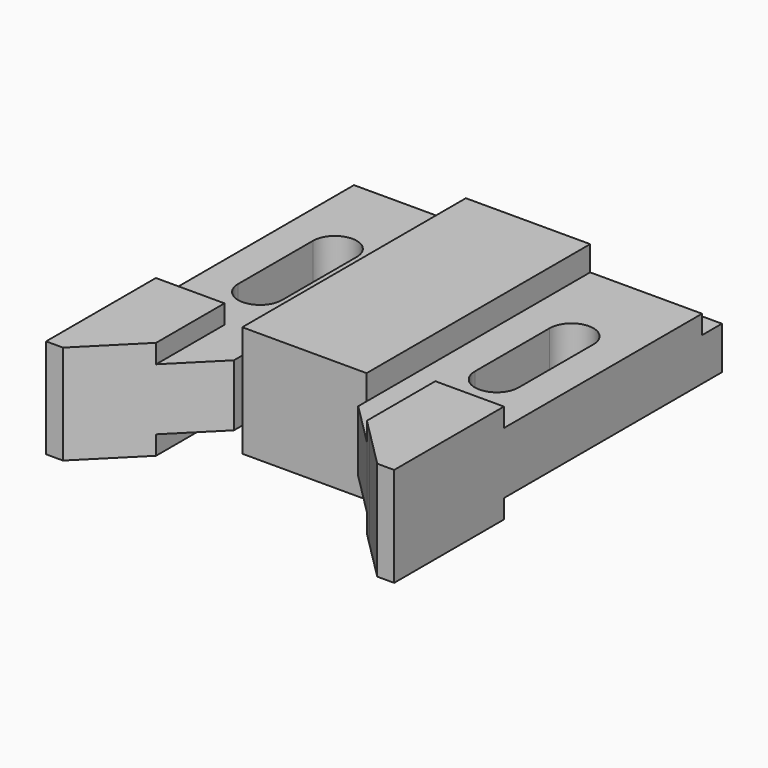
from build123d import *

# Parameters (mm, degrees)
F0_W     = 31.75
F0_H     = 77.724
F1_DEPTH = 14.224
F2_DEPTH = 7.874
F4_DEPTH = 88.901
F5_DEPTH = 12.7


with BuildPart() as f1:
    # F0 (on Top) → F1 (new body, symmetric)
    with BuildSketch(Plane.XY):
        Rectangle(F0_W, F0_H)
    extrude(amount=F1_DEPTH, both=True)

    # F0 (on Top) → F2 (join, symmetric)
    with BuildSketch(Plane.XY):
        Polygon((-15.875, -38.862), (-15.875, 38.862), (-44.45, 38.862), (-44.45, -30.734), (-26.924, -30.734), (-26.924, -52.577469), (-15.875, -41.528469), align=None)
        with BuildLine():
            Line((-35.814, -15.24), (-35.814, 8.636))
            ThreePointArc((-35.814, 8.636), (-30.226, 14.224), (-24.638, 8.636))
            Line((-24.638, 8.636), (-24.638, -15.24))
            ThreePointArc((-24.638, -15.24), (-30.226, -20.828), (-35.814, -15.24))
        make_face(mode=Mode.SUBTRACT)
        Polygon((44.45, 38.862), (15.875, 38.862), (15.875, -38.862), (15.875, -41.528469), (26.924, -52.577469), (26.924, -30.734), (44.45, -30.734), align=None)
        with BuildLine():
            ThreePointArc((24.638, 8.636), (30.226, 14.224), (35.814, 8.636))
            Line((35.814, 8.636), (35.814, -15.24))
            ThreePointArc((35.814, -15.24), (30.226, -20.828), (24.638, -15.24))
            Line((24.638, -15.24), (24.638, 8.636))
        make_face(mode=Mode.SUBTRACT)
    extrude(amount=F2_DEPTH, both=True)

    # F3 (on face) → F4 (cut, through all)
    with BuildSketch(Plane(origin=(-44.45, 0, 0), x_dir=(0, -1, 0), z_dir=(-1, 0, 0))):
        Polygon((-38.862, 7.874), (-38.862, 3.048), (-32.512, 3.048), (-32.512, 17.1704), (-38.862, 17.1704), align=None)
    extrude(amount=-F4_DEPTH, mode=Mode.SUBTRACT)

    # F0 (on Top) → F5 (join, symmetric)
    with BuildSketch(Plane.XY):
        Polygon((-26.924, -30.734), (-44.45, -30.734), (-44.45, -65.786), (-40.132531, -65.786), (-30.353265, -56.006734), (-26.924, -52.577469), align=None)
        Polygon((44.45, -65.786), (44.45, -30.734), (26.924, -30.734), (26.924, -52.577469), (30.353265, -56.006733), (40.132531, -65.786), align=None)
    extrude(amount=F5_DEPTH, both=True)


solid = f1.part
